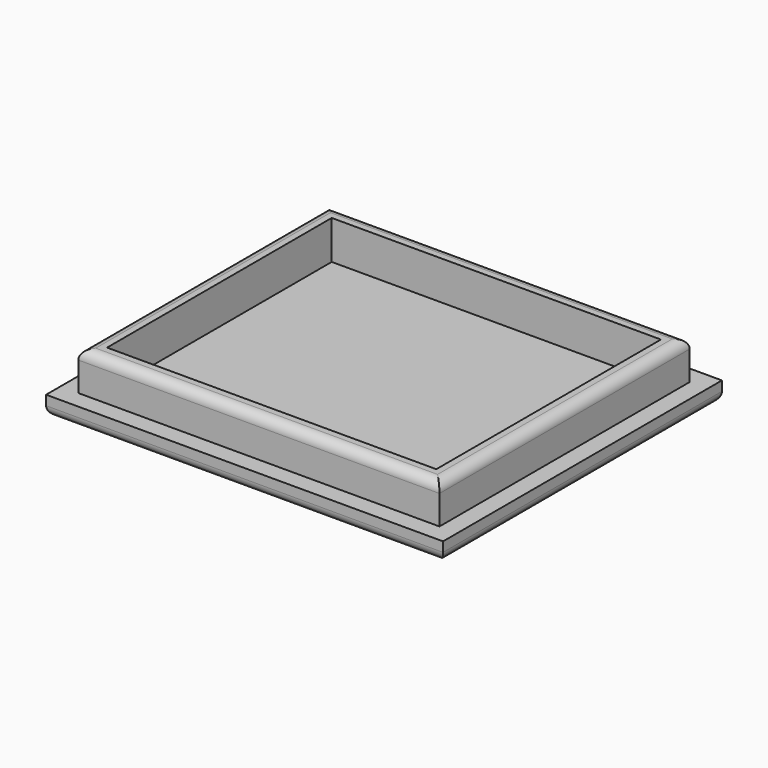
from build123d import *

# Parameters (mm, degrees)
SKETCH_W     = 41
SKETCH_H     = 36
PAD_DEPTH    = 2
SKETCH001_W  = 37.3
SKETCH001_H  = 32.3
PAD001_DEPTH = 4
SKETCH002_W  = 34
SKETCH002_H  = 29
POCKET_DEPTH = 4
FILLET_R     = 1
FILLET001_R  = 1


with BuildPart() as part:
    # Sketch → Pad (new body)
    with BuildSketch(Plane.XY):
        Rectangle(SKETCH_W, SKETCH_H)
    extrude(amount=PAD_DEPTH)

    # Sketch001 (on Face6 of Pad) → Pad001 (join)
    with BuildSketch(Plane.XY.offset(2)):
        Rectangle(SKETCH001_W, SKETCH001_H)
    extrude(amount=PAD001_DEPTH)

    # Sketch002 (on Face11 of Pad001) → Pocket (cut)
    with BuildSketch(Plane.XY.offset(6)):
        Rectangle(SKETCH002_W, SKETCH002_H)
    extrude(amount=-POCKET_DEPTH, mode=Mode.SUBTRACT)

    # Fillet
    fillet_edges = [part.edges().sort_by_distance(p)[0] for p in [
        (0, 16.15, 6),
        (18.65, 0, 6),
        (0, -16.15, 6),
        (-18.65, 0, 6),
    ]]
    fillet(fillet_edges, radius=FILLET_R)

    # Fillet001
    fillet001_edges = [part.edges().sort_by_distance(p)[0] for p in [
        (0, 18, 0),
        (20.5, 0, 0),
        (0, -18, 0),
        (-20.5, 0, 0),
    ]]
    fillet(fillet001_edges, radius=FILLET001_R)


solid = part.part
